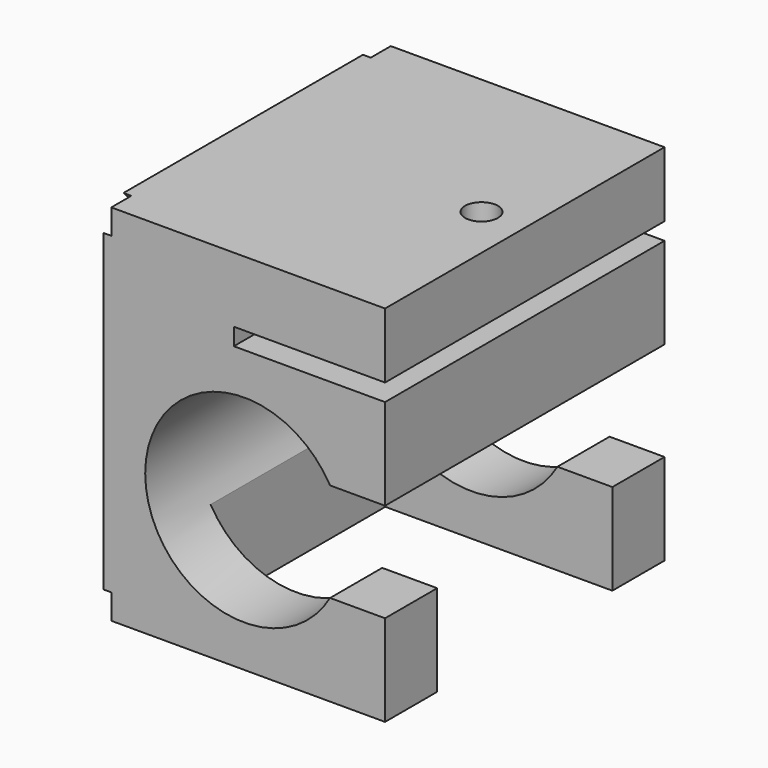
from build123d import *

# Parameters (mm, degrees)
F0_W      = 1371.6
F0_H      = 1772.92
F1_DEPTH  = 1701.8
F2_W      = 736.6
F2_H      = 83.82
F3_DEPTH  = 1701.8
F4_W      = 267.8561401336
F4_H      = 1066.8
F5_DEPTH  = 762
F6_DEPTH  = 838.2
F7_R      = 80.01
F8_DEPTH  = 317.5
F10_DEPTH = 38.1
F11_DEPTH = 38.1


with BuildPart() as f1:
    # F0 (on Front) → F1 (new body)
    with BuildSketch(Plane.XZ):
        with Locations((638.0169455886, 557.9506990528)):
            Rectangle(F0_W, F0_H)
    extrude(amount=F1_DEPTH)

    # F2 (on face) → F3 (cut)
    with BuildSketch(Plane.XZ.offset(1701.8)):
        with Locations((955.5169455886, 1085.0006990528)):
            Rectangle(F2_W, F2_H)
        with BuildLine():
            Line((1323.8169455886, 115.9906990528), (1323.8169455886, 598.5906990528))
            Line((1323.8169455886, 598.5906990528), (1055.960805455, 598.5906990528))
            ThreePointArc((1055.960805455, 598.5906990528), (1104.1727493557, 482.1967702193), (1120.6169455886, 357.2906990528))
            ThreePointArc((1120.6169455886, 357.2906990528), (1104.1727493557, 232.3846278863), (1055.960805455, 115.9906990528))
            Line((1055.960805455, 115.9906990528), (1323.8169455886, 115.9906990528))
        make_face()
        with BuildLine():
            ThreePointArc((1120.6169455886, 357.2906990528), (1104.1727493557, 482.1967702193), (1055.960805455, 598.5906990528))
            ThreePointArc((1055.960805455, 598.5906990528), (220.0730857222, 598.5906990528), (638.0169455886, -125.3093009472))
            ThreePointArc((638.0169455886, -125.3093009472), (879.3169455886, -60.6531608136), (1055.960805455, 115.9906990528))
            ThreePointArc((1055.960805455, 115.9906990528), (1104.1727493557, 232.3846278863), (1120.6169455886, 357.2906990528))
        make_face()
    extrude(amount=-F3_DEPTH, mode=Mode.SUBTRACT)

    # F4 (on face) → F5 (cut)
    with BuildSketch(Plane.XY.offset(115.9906990528)):
        with Locations((1189.8888755218, -850.9)):
            Rectangle(F4_W, F4_H)
    extrude(amount=-F5_DEPTH, mode=Mode.SUBTRACT)

    # F6 (cut): a face of the model
    f6_faces = [f1.faces().sort_by_distance(p)[0] for p in [
        (1055.960805455, -850.9, -106.2593009472),
    ]]
    extrude(f6_faces, amount=-F6_DEPTH, mode=Mode.SUBTRACT)

    # F7 (on face) → F8 (cut)
    with BuildSketch(Plane.XY.offset(1444.4106990528)):
        with Locations((1112.9969455886, -850.9)):
            Circle(F7_R)
    extrude(amount=-F8_DEPTH, mode=Mode.SUBTRACT)

    # F9 (on face) → F10 (cut)
    with BuildSketch(Plane(origin=(-47.7830544114, 0, 0), x_dir=(0, -1, 0), z_dir=(-1, 0, 0))):
        Polygon((0, 1444.4106990528), (0, 1322.4906990528), (121.92, 1444.4106990528), align=None)
        Polygon((0, -206.5893009472), (0, -328.5093009472), (121.92, -328.5093009472), align=None)
        Polygon((1701.8, -206.5893009472), (1579.88, -328.5093009472), (1701.8, -328.5093009472), align=None)
        Polygon((1579.88, 1444.4106990528), (1701.8, 1322.4906990528), (1701.8, 1444.4106990528), align=None)
    extrude(amount=-F10_DEPTH, mode=Mode.SUBTRACT)

    # F9 (on face) → F11 (cut)
    with BuildSketch(Plane(origin=(-47.7830544114, 0, 0), x_dir=(0, -1, 0), z_dir=(-1, 0, 0))):
        Polygon((0, 1322.4906990528), (731.6059692308, 557.9506990528), (850.9, 682.6148791171), (121.92, 1444.4106990528), align=None)
        Polygon((731.6059692308, 557.9506990528), (850.9, 433.2865189885), (970.1940307692, 557.9506990528), (850.9, 682.6148791171), align=None)
        Polygon((850.9, 682.6148791171), (970.1940307692, 557.9506990528), (1701.8, 1322.4906990528), (1579.88, 1444.4106990528), align=None)
        Polygon((970.1940307692, 557.9506990528), (850.9, 433.2865189885), (1579.88, -328.5093009472), (1701.8, -206.5893009472), align=None)
        Polygon((0, -206.5893009472), (121.92, -328.5093009472), (850.9, 433.2865189885), (731.6059692308, 557.9506990528), align=None)
    extrude(amount=-F11_DEPTH, mode=Mode.SUBTRACT)


solid = f1.part
